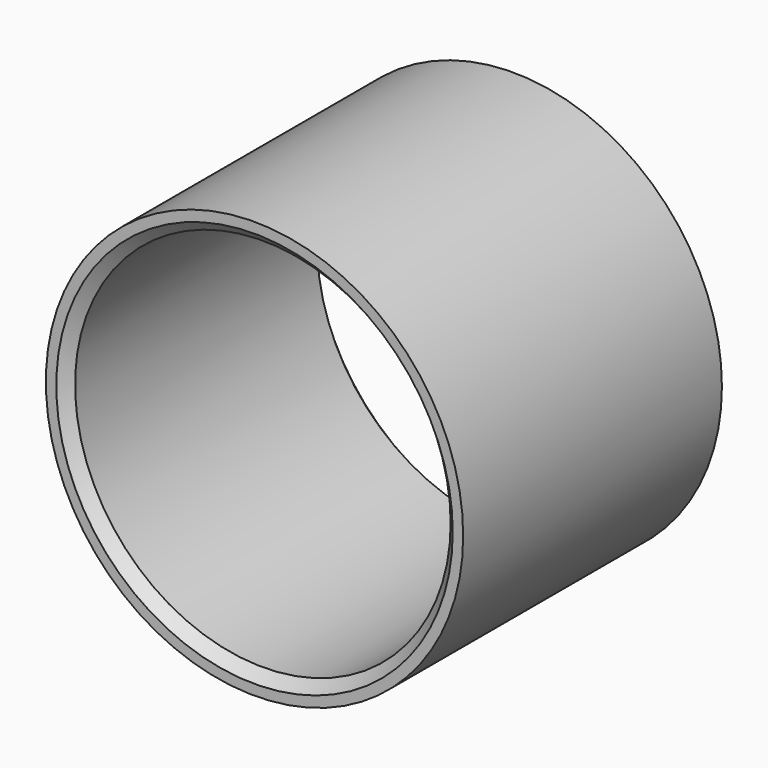
from build123d import *

# Parameters (mm, degrees)
F0_R     = 10
F0_R_2   = 9
F1_DEPTH = 15.5
F2_SIZE  = 0.5


with BuildPart() as f1:
    # F0 (on Front) → F1 (new body)
    with BuildSketch(Plane.XZ):
        Circle(F0_R)
        Circle(F0_R_2, mode=Mode.SUBTRACT)
    extrude(amount=F1_DEPTH)

    # F2
    f2_edges = [f1.edges().sort_by_distance(p)[0] for p in [
        (9, -7.75, 0),
        (-9, 0, 0),
        (-9, -15.5, 0),
    ]]
    chamfer(f2_edges, length=F2_SIZE)


solid = f1.part
